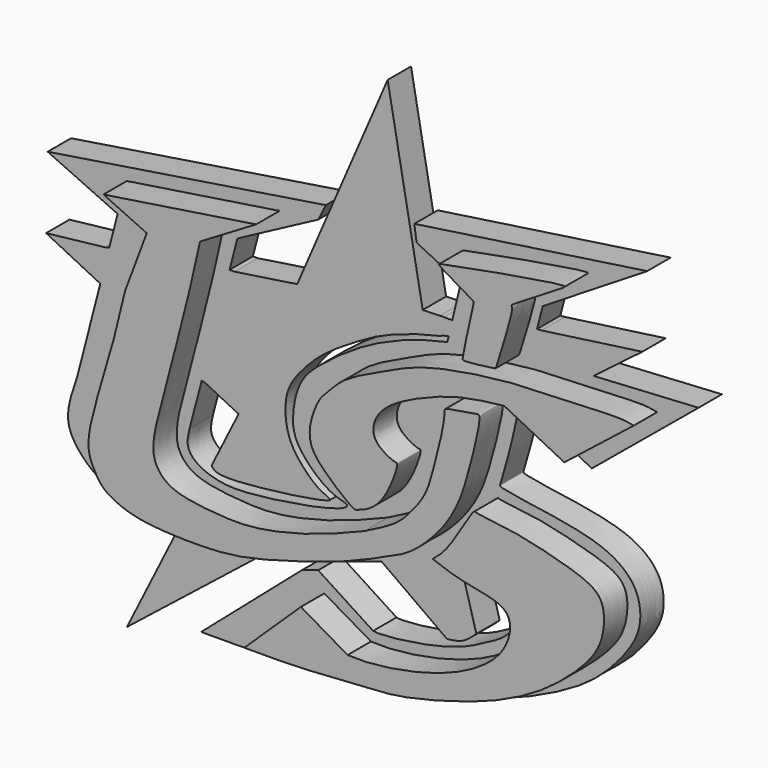
from build123d import *

# Parameters (mm, degrees)
F1_DEPTH = 6.35
F2_DEPTH = 6.35
F3_DEPTH = 12.7


with BuildPart() as f1:
    # F0 (on Front) → F1 (new body)
    with BuildSketch(Plane.XZ):
        with BuildLine():
            Line((-42.4376465381, -27.3800939331), (-53.0114546419, -48.6129857609))
            Line((-53.0114546419, -48.6129857609), (-25.3831148148, -26.6979131857))
            Line((-25.3831148148, -26.6979131857), (-23.6366916818, -25.2320138406))
            add(Edge.make_bspline(
                [(-41.7691771334, -26.0377640534), (-41.1954421932, -26.0835224653), (-36.9028654779, -26.366603653), (-30.5098619043, -26.0730380936), (-25.3766049946, -25.4946895826), (-23.6366916818, -25.2320138406)],
                knots=[0.2397692851, 0.2397692851, 0.2397692851, 0.2397692851, 0.2489529616, 0.3080979112, 0.3378154522, 0.3378154522, 0.3378154522, 0.3378154522], degree=3))
            Line((-41.7691771334, -26.0377640534), (-42.4376465381, -27.3800939331))
        make_face()
        with BuildLine():
            Line((-29.6562891454, 26.9381646067), (-30.7335238783, 26.9381646067))
            Line((-30.7335238783, 26.9381646067), (-36.7864543549, 3.7700516927))
            Line((-36.7864543549, 3.7700516927), (-35.8477634498, 3.5248081198))
            Line((-35.8477634498, 3.5248081198), (-28.7697203468, 0))
            Line((-28.7697203468, 0), (-34.6516929567, -11.8113821372))
            add(Edge.make_bspline(
                [(-34.6516929567, -11.8113821372), (-34.4380746117, -12.0857131434), (-33.6722211419, -13.0692305136), (-26.7898929658, -13.1732431619), (-8.5220053851, -10.5932152268), (-9.0530546755, -9.6023762509), (-11.8008584425, -8.7327174413), (-15.9407462623, -4.4549214527), (-17.7422258113, -1.2928047099), (-18.6731217913, 2.3123621876), (-18.6488786109, 7.7823987055), (-15.5744442423, 12.4285022377), (-10.637081161, 17.5473859044), (-3.8572529088, 21.7723414372), (2.4301210636, 25.4768721243), (10.6293401036, 28.2247379864), (15.0400827639, 29.090663953), (15.5235519633, 29.4165611267)],
                knots=[0, 0, 0, 0, 0.0266132826, 0.0954125679, 0.2006234088, 0.2133912405, 0.2541192006, 0.3161205096, 0.3640926887, 0.4117573666, 0.4691901977, 0.527689545, 0.5945956096, 0.6652762546, 0.7336829375, 0.8096615746, 0.8624727369, 0.8624727369, 0.8624727369, 0.8624727369], degree=3))
            add(Edge.make_bspline(
                [(15.5235519633, 29.4165611267), (15.7007009794, 29.5359738293), (15.6982491426, 29.9047909665), (16.4697537596, 32.6023384914), (15.980239762, 32.9952135318), (15.8596189055, 33.0343730748)],
                knots=[0.8624727369, 0.8624727369, 0.8624727369, 0.8624727369, 0.8818233914, 0.9242664498, 0.9340292896, 0.9340292896, 0.9340292896, 0.9340292896], degree=3))
            Line((15.8596189055, 33.0343730748), (14.9808796123, 33.0343730748))
            add(Edge.make_bspline(
                [(14.9808796123, 33.0343730748), (13.9872211639, 32.9490953223), (12.614847331, 32.9314366498), (11.242473498, 32.9137779772)],
                knots=[0.9514363476, 0.9514363476, 0.9514363476, 0.9514363476, 1, 1, 1, 1], degree=3))
            add(Edge.make_bspline(
                [(11.242473498, 32.9137779772), (8.7041763278, 46.7598835627), (6.1658791577, 60.6059891482), (3.6275819875, 74.4520947337)],
                knots=[0, 0, 0, 0, 42.2305379042, 42.2305379042, 42.2305379042, 42.2305379042], degree=3))
            Line((3.6275819875, 74.4520947337), (-16.0291995853, 28.9882570505))
            Line((-16.0291995853, 28.9882570505), (-29.6562891454, 26.9381646067))
        make_face()
        with BuildLine():
            add(Edge.make_bspline(
                [(2.309396544, -18.1167143251), (4.496918714, -17.3214251753), (9.5341551386, -15.1855696961), (14.0533331978, -11.6283887449), (14.2926702328, -12.3176139978), (16.7651061547, -12.7306350616), (18.8260541374, -13.1057436397), (19.5665618613, -13.2385130729)],
                knots=[0.4667838055, 0.4667838055, 0.4667838055, 0.4667838055, 0.4989526095, 0.5440901973, 0.5536111345, 0.5849283549, 0.6020393858, 0.6020393858, 0.6020393858, 0.6020393858], degree=3))
            Line((2.309396544, -18.1167143251), (3.6275819875, -19.0614126623))
            Line((3.6275819875, -19.0614126623), (16.5039096028, -28.2894354314))
            add(Edge.make_bspline(
                [(16.5039096028, -28.2894354314), (17.6611902449, -28.1607036612), (20.0356757327, -27.8953465363), (21.9238260721, -26.1484756204), (22.8919516352, -25.2505125956)],
                knots=[0, 0, 0, 0, 0.4872229545, 1, 1, 1, 1], degree=3))
            Line((22.8919516352, -25.2505125956), (20.0525595841, -15.0084211038))
            Line((20.0525595841, -15.0084211038), (19.7813863901, -14.0313277499))
            Line((19.7813863901, -14.0313277499), (19.5665618613, -13.2385130729))
        make_face()
        Polygon((34.5630422235, 31.5661802888), (48.3473063987, 32.3680349721), (49.6235899627, 33.3391204476), (58.9530207217, 40.4376015067), (37.0491407812, 37.3953953385), (36.0586283499, 37.3269600218), align=None)
        with BuildLine():
            add(Edge.make_bspline(
                [(-63.796043396, -4.1443109512), (-64.54565073, -6.3275884886), (-65.9501872237, -10.4183875485), (-65.9447998634, -15.8333761757), (-59.4853663726, -23.0238993663), (-50.9788613354, -24.8367975957), (-44.792977528, -25.7965998954), (-41.7691771334, -26.0377640534)],
                knots=[0, 0, 0, 0, 0.0454963231, 0.0852462926, 0.1377475649, 0.1913678324, 0.2397692851, 0.2397692851, 0.2397692851, 0.2397692851], degree=3))
            add(Edge.make_bspline(
                [(-41.7691771334, -26.0377640534), (-41.1954421932, -26.0835224653), (-36.9028654779, -26.366603653), (-30.5098619043, -26.0730380936), (-25.3766049946, -25.4946895826), (-23.6366916818, -25.2320138406)],
                knots=[0.2397692851, 0.2397692851, 0.2397692851, 0.2397692851, 0.2489529616, 0.3080979112, 0.3378154522, 0.3378154522, 0.3378154522, 0.3378154522], degree=3))
            add(Edge.make_bspline(
                [(-23.6366916818, -25.2320138406), (-22.0652421023, -24.994771168), (-16.5270571733, -23.9718874991), (-7.3701367042, -21.1917495982), (-0.1049437106, -18.9944647932), (2.309396544, -18.1167143251)],
                knots=[0.3378154522, 0.3378154522, 0.3378154522, 0.3378154522, 0.36465565, 0.4312795078, 0.4667838055, 0.4667838055, 0.4667838055, 0.4667838055], degree=3))
            add(Edge.make_bspline(
                [(2.309396544, -18.1167143251), (4.496918714, -17.3214251753), (9.5341551386, -15.1855696961), (14.0533331978, -11.6283887449), (14.2926702328, -12.3176139978), (16.7651061547, -12.7306350616), (18.8260541374, -13.1057436397), (19.5665618613, -13.2385130729)],
                knots=[0.4667838055, 0.4667838055, 0.4667838055, 0.4667838055, 0.4989526095, 0.5440901973, 0.5536111345, 0.5849283549, 0.6020393858, 0.6020393858, 0.6020393858, 0.6020393858], degree=3))
            add(Edge.make_bspline(
                [(19.5665618613, -13.2385130729), (20.6447309783, -13.4318235517), (23.664872662, -13.9618677804), (28.6883638612, -14.6090083595), (31.3783321823, -15.3955593587), (32.7316547016, -16.857168545), (32.7631887136, -18.7684832292), (29.8697160109, -23.8147442837), (24.9090412836, -26.1740230211), (20.3062780464, -28.8363336442), (11.8395593776, -31.1266479527), (2.4570745869, -32.2457849564), (0.933766607, -32.0360201853), (0.4729273787, -31.9725610316)],
                knots=[0.6020393858, 0.6020393858, 0.6020393858, 0.6020393858, 0.6269528128, 0.6701760112, 0.6994160338, 0.7225042303, 0.7455270249, 0.7870247179, 0.8285181564, 0.8687302729, 0.9224990428, 0.9765539984, 1, 1, 1, 1], degree=3))
            Line((0.4729273787, -31.9725610316), (-11.4658530802, -24.2545623332))
            Line((-11.4658530802, -24.2545623332), (-15.0233684108, -25.400204584))
            Line((-15.0233684108, -25.400204584), (-36.9111336768, -44.3334206939))
            add(Edge.make_bspline(
                [(-36.9111336768, -44.3334206939), (-34.6099954966, -44.3741076308), (-29.0577127439, -44.4722787792), (-14.2293237421, -43.4272932243), (6.7875889955, -42.3024569899), (21.9641887551, -38.0315235579), (33.3879503069, -34.1866866952), (47.6476171907, -27.2925753875), (55.5329960719, -18.6946602945), (58.9977869956, -12.3468511448), (58.2381732931, -5.3546922971), (53.3300819358, -0.692890126), (45.6918407112, 1.8229076786), (35.9382236102, 3.2672945751), (27.9820769757, 4.3753103856), (28.0726802334, 5.1908816443), (30.1533554329, 11.7694442123), (31.5143309833, 18.3067829447), (32.2233620208, 21.3272183549), (32.529361546, 22.6307604462)],
                knots=[0, 0, 0, 0, 0.0541466946, 0.1306474166, 0.2229180633, 0.3012480217, 0.3702003868, 0.4489111497, 0.5163778081, 0.5684289101, 0.6184299542, 0.6681592184, 0.7237518826, 0.7896141753, 0.84198141, 0.8544979895, 0.9051994572, 0.9590865286, 1, 1, 1, 1], degree=3))
            Line((32.529361546, 22.6307604462), (47.9637123644, 14.5298577845))
            Line((47.9637123644, 14.5298577845), (71.1709111929, 33.6957238615))
            Line((71.1709111929, 33.6957238615), (48.3473063987, 32.3680349721))
            Line((48.3473063987, 32.3680349721), (34.5630422235, 31.5661802888))
            Line((34.5630422235, 31.5661802888), (36.0586283499, 37.3269600218))
            Line((36.0586283499, 37.3269600218), (37.3010262847, 42.1124957502))
            Line((37.3010262847, 42.1124957502), (60.0161589682, 56.2080442905))
            Line((60.0161589682, 56.2080442905), (9.4141438603, 48.8053448498))
            Line((9.4141438603, 48.8053448498), (9.9147282427, 45.3835419409))
            Line((9.9147282427, 45.3835419409), (19.4826480001, 40.6232923269))
            Line((19.4826480001, 40.6232923269), (17.6655818077, 33.0343730748))
            Line((17.6655818077, 33.0343730748), (16.8717842784, 29.7191029005))
            Line((16.8717842784, 29.7191029005), (16.5833756328, 28.5145733505))
            add(Edge.make_bspline(
                [(16.5833756328, 28.5145733505), (14.7912797575, 28.1191055642), (10.4989205487, 27.1718963115), (-0.3278437318, 23.0899484367), (-10.4358607272, 15.9193415782), (-15.8415689551, 10.8291749755), (-17.218572035, 3.4796953571), (-16.5848676159, -2.1256212756), (-9.0815175488, -9.1095336193), (-4.9263998353, -9.3896755215), (-5.5263264115, -10.66739436), (-11.3962510584, -12.2618014606), (-18.0585107602, -13.4465392616), (-26.0630539691, -14.4787647397), (-32.4038564338, -14.6913060644), (-37.960532932, -12.7463016721), (-40.2455017071, -9.7657942424), (-39.6938960301, -7.4575669672), (-39.4161865115, -6.2954747118)],
                knots=[0, 0, 0, 0, 0.062230676, 0.1490525251, 0.239308437, 0.3076298168, 0.3742197685, 0.4343287767, 0.5148113172, 0.5605986932, 0.5805082915, 0.6410232241, 0.7103319993, 0.7821523012, 0.8468226195, 0.9071619763, 0.9532600842, 1, 1, 1, 1], degree=3))
            Line((-39.4161865115, -6.2954747118), (-36.7864543549, 3.7700516927))
            Line((-36.7864543549, 3.7700516927), (-30.7335238783, 26.9381646067))
            Line((-30.7335238783, 26.9381646067), (-29.0188938379, 33.5010588169))
            Line((-29.0188938379, 33.5010588169), (-11.4510552958, 42.8227707744))
            Line((-11.4510552958, 42.8227707744), (-9.8018301651, 46.1212210357))
            Line((-9.8018301651, 46.1212210357), (-70.247836411, 36.684460938))
            Line((-70.247836411, 36.684460938), (-55.0462789834, 29.7290291637))
            Line((-55.0462789834, 29.7290291637), (-56.8767294139, 22.6427275135))
            Line((-56.8767294139, 22.6427275135), (-58.806231659, 15.1729623038))
            Line((-58.806231659, 15.1729623038), (-63.796043396, -4.1443109512))
        make_face()
        with BuildLine():
            Line((-43.6387583613, 32.3381237686), (-53.0450716615, 36.6794988513))
            Line((-53.0450716615, 36.6794988513), (-19.8817923665, 41.7444333434))
            Line((-19.8817923665, 41.7444333434), (-32.0617593825, 34.5088094473))
            add(Edge.make_bspline(
                [(3.6275819875, -9.269756265), (2.4559078224, -9.7616241539), (-0.4717827114, -10.9906663272), (-9.3154329184, -14.2646287571), (-20.7547446869, -16.8620812286), (-29.2175983377, -16.4191671917), (-38.1064865541, -15.3616143343), (-41.7889355749, -11.7761864854), (-42.6915030252, -7.0608016569), (-39.908711084, 2.9043656672), (-38.159954701, 9.4815216792), (-34.2584930494, 24.4427705805), (-32.7488775536, 31.3602446847), (-32.0617593825, 34.5088094473)],
                knots=[0, 0, 0, 0, 0.0646842174, 0.1616280161, 0.2701549748, 0.3635113578, 0.4560378449, 0.5231653107, 0.5900953495, 0.6892105971, 0.7753108447, 0.8977302486, 1, 1, 1, 1], degree=3))
            add(Edge.make_bspline(
                [(-48.3419150114, 19.7963733226), (-49.4047380209, 15.2541951487), (-51.6137794138, 5.8134326606), (-57.432227946, -11.4598734928), (-55.2814897162, -16.2773493717), (-53.1900917962, -20.0929886936), (-47.0082020998, -22.7659045224), (-39.6498759364, -23.6257374782), (-27.4287923237, -23.7801217725), (-17.9022740033, -21.9668562735), (-0.7413552053, -16.8566363469), (8.2967047313, -12.6018265221), (13.748069924, -10.3227414877), (20.258005237, -4.1173178073), (24.2031705157, 2.523666194), (26.3164562109, 9.2891267518), (29.4345687914, 21.7593692375), (27.3855142401, 20.6790668173), (20.8535976827, 20.1166271932), (21.2119209787, 19.1601125865), (20.4078568163, 14.0200443105), (18.4933584837, 7.0590959479), (17.1679851622, 2.0813352584), (13.7091158669, -2.5165438056), (10.5492392502, -5.8208681045), (6.1295371927, -8.0230947564), (3.6275819875, -9.269756265)],
                knots=[0, 0, 0, 0, 0.060081989, 0.1248783659, 0.1584803557, 0.1893648939, 0.2280777899, 0.2709832944, 0.3240698938, 0.3736608072, 0.4390944543, 0.4880089131, 0.5249675923, 0.5707502322, 0.6129471535, 0.6575969642, 0.7085873217, 0.7253047417, 0.7641161658, 0.7753798276, 0.8095384236, 0.8524558355, 0.8877177238, 0.9238937462, 0.9569169063, 1, 1, 1, 1], degree=3))
            add(Edge.make_bspline(
                [(-43.6387583613, 32.3381237686), (-45.2064772447, 28.1575402866), (-46.7741961281, 23.9769568046), (-48.3419150114, 19.7963733226)],
                knots=[0, 0, 0, 0, 13.3945954296, 13.3945954296, 13.3945954296, 13.3945954296], degree=3))
        make_face(mode=Mode.SUBTRACT)
        with BuildLine():
            add(Edge.make_bspline(
                [(0, -34.1584198177), (1.3756538468, -34.2181767706), (4.8529418096, -34.369226494), (15.6599460415, -32.762550201), (25.8112907546, -29.213996625), (33.2719214353, -24.0138786371), (35.7075227189, -18.3466243737), (34.8818965886, -14.1658759716), (29.6656686549, -12.6402518628), (23.7684270449, -11.7526858185), (20.2224264381, -10.4137575705), (18.4913482517, -9.7601227462)],
                knots=[0, 0, 0, 0, 0.0931723213, 0.2355149094, 0.3805305574, 0.5091881259, 0.6130140157, 0.6939761447, 0.7899943686, 0.8974799477, 1, 1, 1, 1], degree=3))
            add(Edge.make_bspline(
                [(18.4913482517, -9.7601227462), (19.6025470868, -8.8563676784), (22.2200381007, -6.7275220623), (27.2038085523, 2.6819308161), (28.1482445715, 1.9186059235), (36.3539870492, 1.2849102068), (43.6525148835, -0.5601938155), (51.274017812, -2.6064083335), (55.6362059823, -5.2908505901), (55.9350565561, -11.0740003965), (54.2068228465, -16.4459847801), (49.0013784913, -21.8937443557), (42.6431828712, -27.1629410146), (33.9146712601, -31.8879791713), (24.1741675123, -35.397543135), (10.7289240926, -38.8676644421), (2.4813668115, -38.9729063122), (-9.7746119467, -40.0986206744), (-18.1677869709, -40.0780118365), (-22.4437396973, -40.067512542)],
                knots=[0, 0, 0, 0, 0.048741877, 0.1148142177, 0.1321999056, 0.1907517002, 0.2527230243, 0.3118050409, 0.3573887227, 0.4056393514, 0.4558049908, 0.5132799136, 0.5746816308, 0.6407807977, 0.7103845879, 0.7885942225, 0.8501953759, 0.923681147, 1, 1, 1, 1], degree=3))
            Line((-22.4437396973, -40.067512542), (-10.1431775838, -28.2493270934))
            Line((-10.1431775838, -28.2493270934), (0, -34.1584198177))
        make_face(mode=Mode.SUBTRACT)
        with BuildLine():
            Line((62.1695555747, 29.9360267818), (47.0762960613, 17.9978553206))
            Line((47.0762960613, 17.9978553206), (34.0295806527, 24.563850835))
            add(Edge.make_bspline(
                [(62.1695555747, 29.9360267818), (61.3122085473, 30.1114806487), (58.8258996889, 30.6202973699), (46.8528038197, 29.7296359472), (35.4768250983, 29.8610613004), (16.4322601585, 26.9356831855), (8.6852417478, 22.9033728165), (-1.1943220684, 18.6573143213), (-4.5027560407, 14.3260905849), (-5.9520254596, 13.3582671305), (-8.0952022468, 8.6655157151), (-8.6108516182, 3.2637230887), (-4.7500542149, -1.0870740284), (1.2964558472, -6.0812021519), (2.2173108877, -5.6266560539), (7.8454120568, -3.9865068606), (11.3223636435, 6.3347194445), (10.2182521308, 5.9303132846), (5.7034064095, 8.1270501918), (5.3715161158, 11.8392673577), (7.2388346657, 15.2102215404), (11.5118141796, 18.2317293495), (18.5403701337, 21.4083160786), (25.6727375602, 23.6050472804), (31.1947083758, 24.2385981545), (34.0295806527, 24.563850835)],
                knots=[0, 0, 0, 0, 0.0316811045, 0.0918752947, 0.1554886349, 0.2323631621, 0.2868380795, 0.3447256992, 0.3846353024, 0.4074616071, 0.4469361109, 0.4873877547, 0.5314631193, 0.5796390004, 0.5952392789, 0.6374643625, 0.6925639572, 0.7043247351, 0.7424301647, 0.7752922595, 0.809011917, 0.8495277441, 0.8991553348, 0.9482283128, 1, 1, 1, 1], degree=3))
        make_face(mode=Mode.SUBTRACT)
        with BuildLine():
            Line((27.2812526673, 41.5352322161), (27.4018477648, 42.379386723))
            add(Edge.make_bspline(
                [(27.4018477648, 42.379386723), (23.8496107279, 44.397563944), (19.3442786244, 46.9572350836), (20.7455922685, 47.4135722546), (46.7081016387, 52.2351758849), (47.462881041, 51.292433257), (34.6638223885, 44.2426975392), (36.5346428827, 44.1950759108), (32.0784930672, 31.2118183403), (32.3544552764, 31.1018471816), (25.0135445234, 30.0565785509), (24.911802868, 30.9659760305), (26.2035013165, 36.7277743268), (27.2812526673, 41.5352322161)],
                knots=[0, 0, 0, 0, 0.1206776867, 0.1530565248, 0.3640608113, 0.3830498163, 0.5325022632, 0.5590948196, 0.7059572102, 0.7312626444, 0.8378667074, 0.8647212317, 1, 1, 1, 1], degree=3))
        make_face(mode=Mode.SUBTRACT)
        Polygon((-59.3777149916, 15.4556315392), (-58.806231659, 15.1729623038), (-56.8767294139, 22.6427275135), (-57.80999735, 22.4500689656), (-70.5929324031, 21.0029445589), align=None)
    extrude(amount=F1_DEPTH)

    # F0 (on Front) → F2 (join)
    with BuildSketch(Plane.XZ):
        with BuildLine():
            Line((-42.4376465381, -27.3800939331), (-53.0114546419, -48.6129857609))
            Line((-53.0114546419, -48.6129857609), (-25.3831148148, -26.6979131857))
            Line((-25.3831148148, -26.6979131857), (-23.6366916818, -25.2320138406))
            add(Edge.make_bspline(
                [(-41.7691771334, -26.0377640534), (-41.1954421932, -26.0835224653), (-36.9028654779, -26.366603653), (-30.5098619043, -26.0730380936), (-25.3766049946, -25.4946895826), (-23.6366916818, -25.2320138406)],
                knots=[0.2397692851, 0.2397692851, 0.2397692851, 0.2397692851, 0.2489529616, 0.3080979112, 0.3378154522, 0.3378154522, 0.3378154522, 0.3378154522], degree=3))
            Line((-41.7691771334, -26.0377640534), (-42.4376465381, -27.3800939331))
        make_face()
        with BuildLine():
            add(Edge.make_bspline(
                [(-63.796043396, -4.1443109512), (-64.54565073, -6.3275884886), (-65.9501872237, -10.4183875485), (-65.9447998634, -15.8333761757), (-59.4853663726, -23.0238993663), (-50.9788613354, -24.8367975957), (-44.792977528, -25.7965998954), (-41.7691771334, -26.0377640534)],
                knots=[0, 0, 0, 0, 0.0454963231, 0.0852462926, 0.1377475649, 0.1913678324, 0.2397692851, 0.2397692851, 0.2397692851, 0.2397692851], degree=3))
            add(Edge.make_bspline(
                [(-41.7691771334, -26.0377640534), (-41.1954421932, -26.0835224653), (-36.9028654779, -26.366603653), (-30.5098619043, -26.0730380936), (-25.3766049946, -25.4946895826), (-23.6366916818, -25.2320138406)],
                knots=[0.2397692851, 0.2397692851, 0.2397692851, 0.2397692851, 0.2489529616, 0.3080979112, 0.3378154522, 0.3378154522, 0.3378154522, 0.3378154522], degree=3))
            add(Edge.make_bspline(
                [(-23.6366916818, -25.2320138406), (-22.0652421023, -24.994771168), (-16.5270571733, -23.9718874991), (-7.3701367042, -21.1917495982), (-0.1049437106, -18.9944647932), (2.309396544, -18.1167143251)],
                knots=[0.3378154522, 0.3378154522, 0.3378154522, 0.3378154522, 0.36465565, 0.4312795078, 0.4667838055, 0.4667838055, 0.4667838055, 0.4667838055], degree=3))
            add(Edge.make_bspline(
                [(2.309396544, -18.1167143251), (4.496918714, -17.3214251753), (9.5341551386, -15.1855696961), (14.0533331978, -11.6283887449), (14.2926702328, -12.3176139978), (16.7651061547, -12.7306350616), (18.8260541374, -13.1057436397), (19.5665618613, -13.2385130729)],
                knots=[0.4667838055, 0.4667838055, 0.4667838055, 0.4667838055, 0.4989526095, 0.5440901973, 0.5536111345, 0.5849283549, 0.6020393858, 0.6020393858, 0.6020393858, 0.6020393858], degree=3))
            add(Edge.make_bspline(
                [(19.5665618613, -13.2385130729), (20.6447309783, -13.4318235517), (23.664872662, -13.9618677804), (28.6883638612, -14.6090083595), (31.3783321823, -15.3955593587), (32.7316547016, -16.857168545), (32.7631887136, -18.7684832292), (29.8697160109, -23.8147442837), (24.9090412836, -26.1740230211), (20.3062780464, -28.8363336442), (11.8395593776, -31.1266479527), (2.4570745869, -32.2457849564), (0.933766607, -32.0360201853), (0.4729273787, -31.9725610316)],
                knots=[0.6020393858, 0.6020393858, 0.6020393858, 0.6020393858, 0.6269528128, 0.6701760112, 0.6994160338, 0.7225042303, 0.7455270249, 0.7870247179, 0.8285181564, 0.8687302729, 0.9224990428, 0.9765539984, 1, 1, 1, 1], degree=3))
            Line((0.4729273787, -31.9725610316), (-11.4658530802, -24.2545623332))
            Line((-11.4658530802, -24.2545623332), (-15.0233684108, -25.400204584))
            Line((-15.0233684108, -25.400204584), (-36.9111336768, -44.3334206939))
            add(Edge.make_bspline(
                [(-36.9111336768, -44.3334206939), (-34.6099954966, -44.3741076308), (-29.0577127439, -44.4722787792), (-14.2293237421, -43.4272932243), (6.7875889955, -42.3024569899), (21.9641887551, -38.0315235579), (33.3879503069, -34.1866866952), (47.6476171907, -27.2925753875), (55.5329960719, -18.6946602945), (58.9977869956, -12.3468511448), (58.2381732931, -5.3546922971), (53.3300819358, -0.692890126), (45.6918407112, 1.8229076786), (35.9382236102, 3.2672945751), (27.9820769757, 4.3753103856), (28.0726802334, 5.1908816443), (30.1533554329, 11.7694442123), (31.5143309833, 18.3067829447), (32.2233620208, 21.3272183549), (32.529361546, 22.6307604462)],
                knots=[0, 0, 0, 0, 0.0541466946, 0.1306474166, 0.2229180633, 0.3012480217, 0.3702003868, 0.4489111497, 0.5163778081, 0.5684289101, 0.6184299542, 0.6681592184, 0.7237518826, 0.7896141753, 0.84198141, 0.8544979895, 0.9051994572, 0.9590865286, 1, 1, 1, 1], degree=3))
            Line((32.529361546, 22.6307604462), (47.9637123644, 14.5298577845))
            Line((47.9637123644, 14.5298577845), (71.1709111929, 33.6957238615))
            Line((71.1709111929, 33.6957238615), (48.3473063987, 32.3680349721))
            Line((48.3473063987, 32.3680349721), (34.5630422235, 31.5661802888))
            Line((34.5630422235, 31.5661802888), (36.0586283499, 37.3269600218))
            Line((36.0586283499, 37.3269600218), (37.3010262847, 42.1124957502))
            Line((37.3010262847, 42.1124957502), (60.0161589682, 56.2080442905))
            Line((60.0161589682, 56.2080442905), (9.4141438603, 48.8053448498))
            Line((9.4141438603, 48.8053448498), (9.9147282427, 45.3835419409))
            Line((9.9147282427, 45.3835419409), (19.4826480001, 40.6232923269))
            Line((19.4826480001, 40.6232923269), (17.6655818077, 33.0343730748))
            Line((17.6655818077, 33.0343730748), (16.8717842784, 29.7191029005))
            Line((16.8717842784, 29.7191029005), (16.5833756328, 28.5145733505))
            add(Edge.make_bspline(
                [(16.5833756328, 28.5145733505), (14.7912797575, 28.1191055642), (10.4989205487, 27.1718963115), (-0.3278437318, 23.0899484367), (-10.4358607272, 15.9193415782), (-15.8415689551, 10.8291749755), (-17.218572035, 3.4796953571), (-16.5848676159, -2.1256212756), (-9.0815175488, -9.1095336193), (-4.9263998353, -9.3896755215), (-5.5263264115, -10.66739436), (-11.3962510584, -12.2618014606), (-18.0585107602, -13.4465392616), (-26.0630539691, -14.4787647397), (-32.4038564338, -14.6913060644), (-37.960532932, -12.7463016721), (-40.2455017071, -9.7657942424), (-39.6938960301, -7.4575669672), (-39.4161865115, -6.2954747118)],
                knots=[0, 0, 0, 0, 0.062230676, 0.1490525251, 0.239308437, 0.3076298168, 0.3742197685, 0.4343287767, 0.5148113172, 0.5605986932, 0.5805082915, 0.6410232241, 0.7103319993, 0.7821523012, 0.8468226195, 0.9071619763, 0.9532600842, 1, 1, 1, 1], degree=3))
            Line((-39.4161865115, -6.2954747118), (-36.7864543549, 3.7700516927))
            Line((-36.7864543549, 3.7700516927), (-30.7335238783, 26.9381646067))
            Line((-30.7335238783, 26.9381646067), (-29.0188938379, 33.5010588169))
            Line((-29.0188938379, 33.5010588169), (-11.4510552958, 42.8227707744))
            Line((-11.4510552958, 42.8227707744), (-9.8018301651, 46.1212210357))
            Line((-9.8018301651, 46.1212210357), (-70.247836411, 36.684460938))
            Line((-70.247836411, 36.684460938), (-55.0462789834, 29.7290291637))
            Line((-55.0462789834, 29.7290291637), (-56.8767294139, 22.6427275135))
            Line((-56.8767294139, 22.6427275135), (-58.806231659, 15.1729623038))
            Line((-58.806231659, 15.1729623038), (-63.796043396, -4.1443109512))
        make_face()
        with BuildLine():
            Line((-43.6387583613, 32.3381237686), (-53.0450716615, 36.6794988513))
            Line((-53.0450716615, 36.6794988513), (-19.8817923665, 41.7444333434))
            Line((-19.8817923665, 41.7444333434), (-32.0617593825, 34.5088094473))
            add(Edge.make_bspline(
                [(3.6275819875, -9.269756265), (2.4559078224, -9.7616241539), (-0.4717827114, -10.9906663272), (-9.3154329184, -14.2646287571), (-20.7547446869, -16.8620812286), (-29.2175983377, -16.4191671917), (-38.1064865541, -15.3616143343), (-41.7889355749, -11.7761864854), (-42.6915030252, -7.0608016569), (-39.908711084, 2.9043656672), (-38.159954701, 9.4815216792), (-34.2584930494, 24.4427705805), (-32.7488775536, 31.3602446847), (-32.0617593825, 34.5088094473)],
                knots=[0, 0, 0, 0, 0.0646842174, 0.1616280161, 0.2701549748, 0.3635113578, 0.4560378449, 0.5231653107, 0.5900953495, 0.6892105971, 0.7753108447, 0.8977302486, 1, 1, 1, 1], degree=3))
            add(Edge.make_bspline(
                [(-48.3419150114, 19.7963733226), (-49.4047380209, 15.2541951487), (-51.6137794138, 5.8134326606), (-57.432227946, -11.4598734928), (-55.2814897162, -16.2773493717), (-53.1900917962, -20.0929886936), (-47.0082020998, -22.7659045224), (-39.6498759364, -23.6257374782), (-27.4287923237, -23.7801217725), (-17.9022740033, -21.9668562735), (-0.7413552053, -16.8566363469), (8.2967047313, -12.6018265221), (13.748069924, -10.3227414877), (20.258005237, -4.1173178073), (24.2031705157, 2.523666194), (26.3164562109, 9.2891267518), (29.4345687914, 21.7593692375), (27.3855142401, 20.6790668173), (20.8535976827, 20.1166271932), (21.2119209787, 19.1601125865), (20.4078568163, 14.0200443105), (18.4933584837, 7.0590959479), (17.1679851622, 2.0813352584), (13.7091158669, -2.5165438056), (10.5492392502, -5.8208681045), (6.1295371927, -8.0230947564), (3.6275819875, -9.269756265)],
                knots=[0, 0, 0, 0, 0.060081989, 0.1248783659, 0.1584803557, 0.1893648939, 0.2280777899, 0.2709832944, 0.3240698938, 0.3736608072, 0.4390944543, 0.4880089131, 0.5249675923, 0.5707502322, 0.6129471535, 0.6575969642, 0.7085873217, 0.7253047417, 0.7641161658, 0.7753798276, 0.8095384236, 0.8524558355, 0.8877177238, 0.9238937462, 0.9569169063, 1, 1, 1, 1], degree=3))
            add(Edge.make_bspline(
                [(-43.6387583613, 32.3381237686), (-45.2064772447, 28.1575402866), (-46.7741961281, 23.9769568046), (-48.3419150114, 19.7963733226)],
                knots=[0, 0, 0, 0, 13.3945954296, 13.3945954296, 13.3945954296, 13.3945954296], degree=3))
        make_face(mode=Mode.SUBTRACT)
        with BuildLine():
            add(Edge.make_bspline(
                [(0, -34.1584198177), (1.3756538468, -34.2181767706), (4.8529418096, -34.369226494), (15.6599460415, -32.762550201), (25.8112907546, -29.213996625), (33.2719214353, -24.0138786371), (35.7075227189, -18.3466243737), (34.8818965886, -14.1658759716), (29.6656686549, -12.6402518628), (23.7684270449, -11.7526858185), (20.2224264381, -10.4137575705), (18.4913482517, -9.7601227462)],
                knots=[0, 0, 0, 0, 0.0931723213, 0.2355149094, 0.3805305574, 0.5091881259, 0.6130140157, 0.6939761447, 0.7899943686, 0.8974799477, 1, 1, 1, 1], degree=3))
            add(Edge.make_bspline(
                [(18.4913482517, -9.7601227462), (19.6025470868, -8.8563676784), (22.2200381007, -6.7275220623), (27.2038085523, 2.6819308161), (28.1482445715, 1.9186059235), (36.3539870492, 1.2849102068), (43.6525148835, -0.5601938155), (51.274017812, -2.6064083335), (55.6362059823, -5.2908505901), (55.9350565561, -11.0740003965), (54.2068228465, -16.4459847801), (49.0013784913, -21.8937443557), (42.6431828712, -27.1629410146), (33.9146712601, -31.8879791713), (24.1741675123, -35.397543135), (10.7289240926, -38.8676644421), (2.4813668115, -38.9729063122), (-9.7746119467, -40.0986206744), (-18.1677869709, -40.0780118365), (-22.4437396973, -40.067512542)],
                knots=[0, 0, 0, 0, 0.048741877, 0.1148142177, 0.1321999056, 0.1907517002, 0.2527230243, 0.3118050409, 0.3573887227, 0.4056393514, 0.4558049908, 0.5132799136, 0.5746816308, 0.6407807977, 0.7103845879, 0.7885942225, 0.8501953759, 0.923681147, 1, 1, 1, 1], degree=3))
            Line((-22.4437396973, -40.067512542), (-10.1431775838, -28.2493270934))
            Line((-10.1431775838, -28.2493270934), (0, -34.1584198177))
        make_face(mode=Mode.SUBTRACT)
        with BuildLine():
            Line((62.1695555747, 29.9360267818), (47.0762960613, 17.9978553206))
            Line((47.0762960613, 17.9978553206), (34.0295806527, 24.563850835))
            add(Edge.make_bspline(
                [(62.1695555747, 29.9360267818), (61.3122085473, 30.1114806487), (58.8258996889, 30.6202973699), (46.8528038197, 29.7296359472), (35.4768250983, 29.8610613004), (16.4322601585, 26.9356831855), (8.6852417478, 22.9033728165), (-1.1943220684, 18.6573143213), (-4.5027560407, 14.3260905849), (-5.9520254596, 13.3582671305), (-8.0952022468, 8.6655157151), (-8.6108516182, 3.2637230887), (-4.7500542149, -1.0870740284), (1.2964558472, -6.0812021519), (2.2173108877, -5.6266560539), (7.8454120568, -3.9865068606), (11.3223636435, 6.3347194445), (10.2182521308, 5.9303132846), (5.7034064095, 8.1270501918), (5.3715161158, 11.8392673577), (7.2388346657, 15.2102215404), (11.5118141796, 18.2317293495), (18.5403701337, 21.4083160786), (25.6727375602, 23.6050472804), (31.1947083758, 24.2385981545), (34.0295806527, 24.563850835)],
                knots=[0, 0, 0, 0, 0.0316811045, 0.0918752947, 0.1554886349, 0.2323631621, 0.2868380795, 0.3447256992, 0.3846353024, 0.4074616071, 0.4469361109, 0.4873877547, 0.5314631193, 0.5796390004, 0.5952392789, 0.6374643625, 0.6925639572, 0.7043247351, 0.7424301647, 0.7752922595, 0.809011917, 0.8495277441, 0.8991553348, 0.9482283128, 1, 1, 1, 1], degree=3))
        make_face(mode=Mode.SUBTRACT)
        with BuildLine():
            Line((27.2812526673, 41.5352322161), (27.4018477648, 42.379386723))
            add(Edge.make_bspline(
                [(27.4018477648, 42.379386723), (23.8496107279, 44.397563944), (19.3442786244, 46.9572350836), (20.7455922685, 47.4135722546), (46.7081016387, 52.2351758849), (47.462881041, 51.292433257), (34.6638223885, 44.2426975392), (36.5346428827, 44.1950759108), (32.0784930672, 31.2118183403), (32.3544552764, 31.1018471816), (25.0135445234, 30.0565785509), (24.911802868, 30.9659760305), (26.2035013165, 36.7277743268), (27.2812526673, 41.5352322161)],
                knots=[0, 0, 0, 0, 0.1206776867, 0.1530565248, 0.3640608113, 0.3830498163, 0.5325022632, 0.5590948196, 0.7059572102, 0.7312626444, 0.8378667074, 0.8647212317, 1, 1, 1, 1], degree=3))
        make_face(mode=Mode.SUBTRACT)
        with BuildLine():
            add(Edge.make_bspline(
                [(2.309396544, -18.1167143251), (4.496918714, -17.3214251753), (9.5341551386, -15.1855696961), (14.0533331978, -11.6283887449), (14.2926702328, -12.3176139978), (16.7651061547, -12.7306350616), (18.8260541374, -13.1057436397), (19.5665618613, -13.2385130729)],
                knots=[0.4667838055, 0.4667838055, 0.4667838055, 0.4667838055, 0.4989526095, 0.5440901973, 0.5536111345, 0.5849283549, 0.6020393858, 0.6020393858, 0.6020393858, 0.6020393858], degree=3))
            Line((2.309396544, -18.1167143251), (3.6275819875, -19.0614126623))
            Line((3.6275819875, -19.0614126623), (16.5039096028, -28.2894354314))
            add(Edge.make_bspline(
                [(16.5039096028, -28.2894354314), (17.6611902449, -28.1607036612), (20.0356757327, -27.8953465363), (21.9238260721, -26.1484756204), (22.8919516352, -25.2505125956)],
                knots=[0, 0, 0, 0, 0.4872229545, 1, 1, 1, 1], degree=3))
            Line((22.8919516352, -25.2505125956), (20.0525595841, -15.0084211038))
            Line((20.0525595841, -15.0084211038), (19.7813863901, -14.0313277499))
            Line((19.7813863901, -14.0313277499), (19.5665618613, -13.2385130729))
        make_face()
        Polygon((-59.3777149916, 15.4556315392), (-58.806231659, 15.1729623038), (-56.8767294139, 22.6427275135), (-57.80999735, 22.4500689656), (-70.5929324031, 21.0029445589), align=None)
        with BuildLine():
            Line((-29.6562891454, 26.9381646067), (-30.7335238783, 26.9381646067))
            Line((-30.7335238783, 26.9381646067), (-36.7864543549, 3.7700516927))
            Line((-36.7864543549, 3.7700516927), (-35.8477634498, 3.5248081198))
            Line((-35.8477634498, 3.5248081198), (-28.7697203468, 0))
            Line((-28.7697203468, 0), (-34.6516929567, -11.8113821372))
            add(Edge.make_bspline(
                [(-34.6516929567, -11.8113821372), (-34.4380746117, -12.0857131434), (-33.6722211419, -13.0692305136), (-26.7898929658, -13.1732431619), (-8.5220053851, -10.5932152268), (-9.0530546755, -9.6023762509), (-11.8008584425, -8.7327174413), (-15.9407462623, -4.4549214527), (-17.7422258113, -1.2928047099), (-18.6731217913, 2.3123621876), (-18.6488786109, 7.7823987055), (-15.5744442423, 12.4285022377), (-10.637081161, 17.5473859044), (-3.8572529088, 21.7723414372), (2.4301210636, 25.4768721243), (10.6293401036, 28.2247379864), (15.0400827639, 29.090663953), (15.5235519633, 29.4165611267)],
                knots=[0, 0, 0, 0, 0.0266132826, 0.0954125679, 0.2006234088, 0.2133912405, 0.2541192006, 0.3161205096, 0.3640926887, 0.4117573666, 0.4691901977, 0.527689545, 0.5945956096, 0.6652762546, 0.7336829375, 0.8096615746, 0.8624727369, 0.8624727369, 0.8624727369, 0.8624727369], degree=3))
            add(Edge.make_bspline(
                [(15.5235519633, 29.4165611267), (15.7007009794, 29.5359738293), (15.6982491426, 29.9047909665), (16.4697537596, 32.6023384914), (15.980239762, 32.9952135318), (15.8596189055, 33.0343730748)],
                knots=[0.8624727369, 0.8624727369, 0.8624727369, 0.8624727369, 0.8818233914, 0.9242664498, 0.9340292896, 0.9340292896, 0.9340292896, 0.9340292896], degree=3))
            Line((15.8596189055, 33.0343730748), (14.9808796123, 33.0343730748))
            add(Edge.make_bspline(
                [(14.9808796123, 33.0343730748), (13.9872211639, 32.9490953223), (12.614847331, 32.9314366498), (11.242473498, 32.9137779772)],
                knots=[0.9514363476, 0.9514363476, 0.9514363476, 0.9514363476, 1, 1, 1, 1], degree=3))
            add(Edge.make_bspline(
                [(11.242473498, 32.9137779772), (8.7041763278, 46.7598835627), (6.1658791577, 60.6059891482), (3.6275819875, 74.4520947337)],
                knots=[0, 0, 0, 0, 42.2305379042, 42.2305379042, 42.2305379042, 42.2305379042], degree=3))
            Line((3.6275819875, 74.4520947337), (-16.0291995853, 28.9882570505))
            Line((-16.0291995853, 28.9882570505), (-29.6562891454, 26.9381646067))
        make_face()
        Polygon((34.5630422235, 31.5661802888), (48.3473063987, 32.3680349721), (49.6235899627, 33.3391204476), (58.9530207217, 40.4376015067), (37.0491407812, 37.3953953385), (36.0586283499, 37.3269600218), align=None)
        with BuildLine():
            Line((15.5235519633, 29.4165611267), (16.8717842784, 29.7191029005))
            Line((16.8717842784, 29.7191029005), (17.6655818077, 33.0343730748))
            Line((17.6655818077, 33.0343730748), (15.8596189055, 33.0343730748))
            add(Edge.make_bspline(
                [(15.5235519633, 29.4165611267), (15.7007009794, 29.5359738293), (15.6982491426, 29.9047909665), (16.4697537596, 32.6023384914), (15.980239762, 32.9952135318), (15.8596189055, 33.0343730748)],
                knots=[0.8624727369, 0.8624727369, 0.8624727369, 0.8624727369, 0.8818233914, 0.9242664498, 0.9340292896, 0.9340292896, 0.9340292896, 0.9340292896], degree=3))
        make_face()
        with BuildLine():
            add(Edge.make_bspline(
                [(15.8596189055, 33.0343730748), (15.6445529727, 33.1041941976), (15.3370445511, 33.0649398611), (14.9808796123, 33.0343730748)],
                knots=[0.9340292896, 0.9340292896, 0.9340292896, 0.9340292896, 0.9514363476, 0.9514363476, 0.9514363476, 0.9514363476], degree=3))
            Line((14.9808796123, 33.0343730748), (15.8596189055, 33.0343730748))
        make_face()
    extrude(amount=F2_DEPTH)

    # F0 (on Front) → F3 (join)
    with BuildSketch(Plane.XZ):
        with BuildLine():
            Line((-19.8817923665, 41.7444333434), (-53.0450716615, 36.6794988513))
            Line((-53.0450716615, 36.6794988513), (-43.6387583613, 32.3381237686))
            add(Edge.make_bspline(
                [(-43.6387583613, 32.3381237686), (-45.2064772447, 28.1575402866), (-46.7741961281, 23.9769568046), (-48.3419150114, 19.7963733226)],
                knots=[0, 0, 0, 0, 13.3945954296, 13.3945954296, 13.3945954296, 13.3945954296], degree=3))
            add(Edge.make_bspline(
                [(-48.3419150114, 19.7963733226), (-49.4047380209, 15.2541951487), (-51.6137794138, 5.8134326606), (-57.432227946, -11.4598734928), (-55.2814897162, -16.2773493717), (-53.1900917962, -20.0929886936), (-47.0082020998, -22.7659045224), (-39.6498759364, -23.6257374782), (-27.4287923237, -23.7801217725), (-17.9022740033, -21.9668562735), (-0.7413552053, -16.8566363469), (8.2967047313, -12.6018265221), (13.748069924, -10.3227414877), (20.258005237, -4.1173178073), (24.2031705157, 2.523666194), (26.3164562109, 9.2891267518), (29.4345687914, 21.7593692375), (27.3855142401, 20.6790668173), (20.8535976827, 20.1166271932), (21.2119209787, 19.1601125865), (20.4078568163, 14.0200443105), (18.4933584837, 7.0590959479), (17.1679851622, 2.0813352584), (13.7091158669, -2.5165438056), (10.5492392502, -5.8208681045), (6.1295371927, -8.0230947564), (3.6275819875, -9.269756265)],
                knots=[0, 0, 0, 0, 0.060081989, 0.1248783659, 0.1584803557, 0.1893648939, 0.2280777899, 0.2709832944, 0.3240698938, 0.3736608072, 0.4390944543, 0.4880089131, 0.5249675923, 0.5707502322, 0.6129471535, 0.6575969642, 0.7085873217, 0.7253047417, 0.7641161658, 0.7753798276, 0.8095384236, 0.8524558355, 0.8877177238, 0.9238937462, 0.9569169063, 1, 1, 1, 1], degree=3))
            add(Edge.make_bspline(
                [(3.6275819875, -9.269756265), (2.4559078224, -9.7616241539), (-0.4717827114, -10.9906663272), (-9.3154329184, -14.2646287571), (-20.7547446869, -16.8620812286), (-29.2175983377, -16.4191671917), (-38.1064865541, -15.3616143343), (-41.7889355749, -11.7761864854), (-42.6915030252, -7.0608016569), (-39.908711084, 2.9043656672), (-38.159954701, 9.4815216792), (-34.2584930494, 24.4427705805), (-32.7488775536, 31.3602446847), (-32.0617593825, 34.5088094473)],
                knots=[0, 0, 0, 0, 0.0646842174, 0.1616280161, 0.2701549748, 0.3635113578, 0.4560378449, 0.5231653107, 0.5900953495, 0.6892105971, 0.7753108447, 0.8977302486, 1, 1, 1, 1], degree=3))
            Line((-32.0617593825, 34.5088094473), (-19.8817923665, 41.7444333434))
        make_face()
        with BuildLine():
            add(Edge.make_bspline(
                [(27.4018477648, 42.379386723), (23.8496107279, 44.397563944), (19.3442786244, 46.9572350836), (20.7455922685, 47.4135722546), (46.7081016387, 52.2351758849), (47.462881041, 51.292433257), (34.6638223885, 44.2426975392), (36.5346428827, 44.1950759108), (32.0784930672, 31.2118183403), (32.3544552764, 31.1018471816), (25.0135445234, 30.0565785509), (24.911802868, 30.9659760305), (26.2035013165, 36.7277743268), (27.2812526673, 41.5352322161)],
                knots=[0, 0, 0, 0, 0.1206776867, 0.1530565248, 0.3640608113, 0.3830498163, 0.5325022632, 0.5590948196, 0.7059572102, 0.7312626444, 0.8378667074, 0.8647212317, 1, 1, 1, 1], degree=3))
            Line((27.4018477648, 42.379386723), (27.2812526673, 41.5352322161))
        make_face()
        with BuildLine():
            add(Edge.make_bspline(
                [(18.4913482517, -9.7601227462), (19.6025470868, -8.8563676784), (22.2200381007, -6.7275220623), (27.2038085523, 2.6819308161), (28.1482445715, 1.9186059235), (36.3539870492, 1.2849102068), (43.6525148835, -0.5601938155), (51.274017812, -2.6064083335), (55.6362059823, -5.2908505901), (55.9350565561, -11.0740003965), (54.2068228465, -16.4459847801), (49.0013784913, -21.8937443557), (42.6431828712, -27.1629410146), (33.9146712601, -31.8879791713), (24.1741675123, -35.397543135), (10.7289240926, -38.8676644421), (2.4813668115, -38.9729063122), (-9.7746119467, -40.0986206744), (-18.1677869709, -40.0780118365), (-22.4437396973, -40.067512542)],
                knots=[0, 0, 0, 0, 0.048741877, 0.1148142177, 0.1321999056, 0.1907517002, 0.2527230243, 0.3118050409, 0.3573887227, 0.4056393514, 0.4558049908, 0.5132799136, 0.5746816308, 0.6407807977, 0.7103845879, 0.7885942225, 0.8501953759, 0.923681147, 1, 1, 1, 1], degree=3))
            add(Edge.make_bspline(
                [(0, -34.1584198177), (1.3756538468, -34.2181767706), (4.8529418096, -34.369226494), (15.6599460415, -32.762550201), (25.8112907546, -29.213996625), (33.2719214353, -24.0138786371), (35.7075227189, -18.3466243737), (34.8818965886, -14.1658759716), (29.6656686549, -12.6402518628), (23.7684270449, -11.7526858185), (20.2224264381, -10.4137575705), (18.4913482517, -9.7601227462)],
                knots=[0, 0, 0, 0, 0.0931723213, 0.2355149094, 0.3805305574, 0.5091881259, 0.6130140157, 0.6939761447, 0.7899943686, 0.8974799477, 1, 1, 1, 1], degree=3))
            Line((0, -34.1584198177), (-10.1431775838, -28.2493270934))
            Line((-10.1431775838, -28.2493270934), (-22.4437396973, -40.067512542))
        make_face()
        with BuildLine():
            Line((34.0295806527, 24.563850835), (47.0762960613, 17.9978553206))
            Line((47.0762960613, 17.9978553206), (62.1695555747, 29.9360267818))
            add(Edge.make_bspline(
                [(62.1695555747, 29.9360267818), (61.3122085473, 30.1114806487), (58.8258996889, 30.6202973699), (46.8528038197, 29.7296359472), (35.4768250983, 29.8610613004), (16.4322601585, 26.9356831855), (8.6852417478, 22.9033728165), (-1.1943220684, 18.6573143213), (-4.5027560407, 14.3260905849), (-5.9520254596, 13.3582671305), (-8.0952022468, 8.6655157151), (-8.6108516182, 3.2637230887), (-4.7500542149, -1.0870740284), (1.2964558472, -6.0812021519), (2.2173108877, -5.6266560539), (7.8454120568, -3.9865068606), (11.3223636435, 6.3347194445), (10.2182521308, 5.9303132846), (5.7034064095, 8.1270501918), (5.3715161158, 11.8392673577), (7.2388346657, 15.2102215404), (11.5118141796, 18.2317293495), (18.5403701337, 21.4083160786), (25.6727375602, 23.6050472804), (31.1947083758, 24.2385981545), (34.0295806527, 24.563850835)],
                knots=[0, 0, 0, 0, 0.0316811045, 0.0918752947, 0.1554886349, 0.2323631621, 0.2868380795, 0.3447256992, 0.3846353024, 0.4074616071, 0.4469361109, 0.4873877547, 0.5314631193, 0.5796390004, 0.5952392789, 0.6374643625, 0.6925639572, 0.7043247351, 0.7424301647, 0.7752922595, 0.809011917, 0.8495277441, 0.8991553348, 0.9482283128, 1, 1, 1, 1], degree=3))
        make_face()
    extrude(amount=F3_DEPTH)


solid = f1.part
